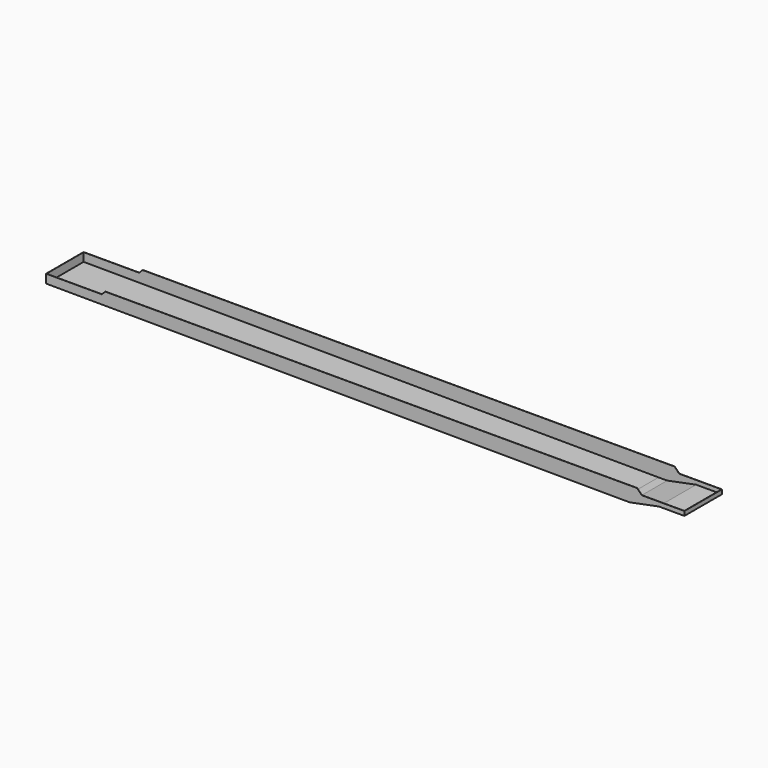
from build123d import *

# Parameters (mm, degrees)
EXTRUDE032_DEPTH = 402
EXTRUDE015_DEPTH = 405


with BuildPart() as extrude032:
    # Sketch033 → Extrude032 (new body, symmetric)
    with BuildSketch(Plane.XZ):
        Polygon((-597, -239), (362, -239), (422, -179), (9604, -179), (9687, -262), (10422, -262), (10422, -337), (9982, -337), (9482, -437), (9332, -437), (-597, -389), align=None)
    extrude(amount=EXTRUDE032_DEPTH, both=True)


with BuildPart() as extrude032_1:
    # Extrude032 placement: moved
    add(extrude032.part.moved(Location((0, 0, 3))))


with BuildPart() as cut:
    # Sketch023 → Extrude015 (new body, symmetric)
    with BuildSketch(Plane.XZ):
        Polygon((-600, -239), (362, -239), (422, -179), (9607, -179), (9690, -262), (10425, -262), (10425, -337), (9985, -337), (9485, -437), (9335, -437), (-600, -389), align=None)
    extrude(amount=EXTRUDE015_DEPTH, both=True)

    # Cut: cut Extrude032
    add(extrude032_1.part, mode=Mode.SUBTRACT)


solid = cut.part
